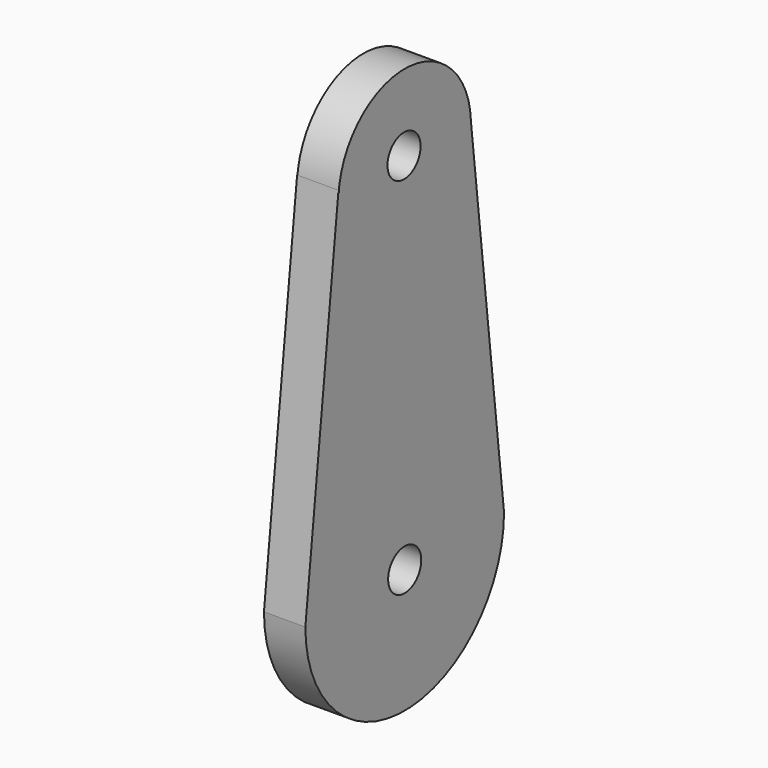
from build123d import *

# Parameters (mm, degrees)
F0_R     = 3.175
F1_DEPTH = 6.35


with BuildPart() as f1:
    # F0 (on Right) → F1 (new body)
    with BuildSketch(Plane.YZ):
        with BuildLine():
            Line((-12.7, 56.400493), (-19.05, 0))
            ThreePointArc((-19.05, 0), (0, -19.05), (19.05, 0))
            Line((19.05, 0), (12.7, 55.416763))
            ThreePointArc((12.7, 55.416763), (0.038887, 67.653858), (-12.7, 55.497747))
            ThreePointArc((-12.7, 55.497747), (-12.708097, 55.94912), (-12.7, 56.400493))
        make_face()
        Circle(F0_R, mode=Mode.SUBTRACT)
        with Locations((-0.123459, 55.94912)):
            Circle(F0_R, mode=Mode.SUBTRACT)
    extrude(amount=F1_DEPTH)


solid = f1.part
